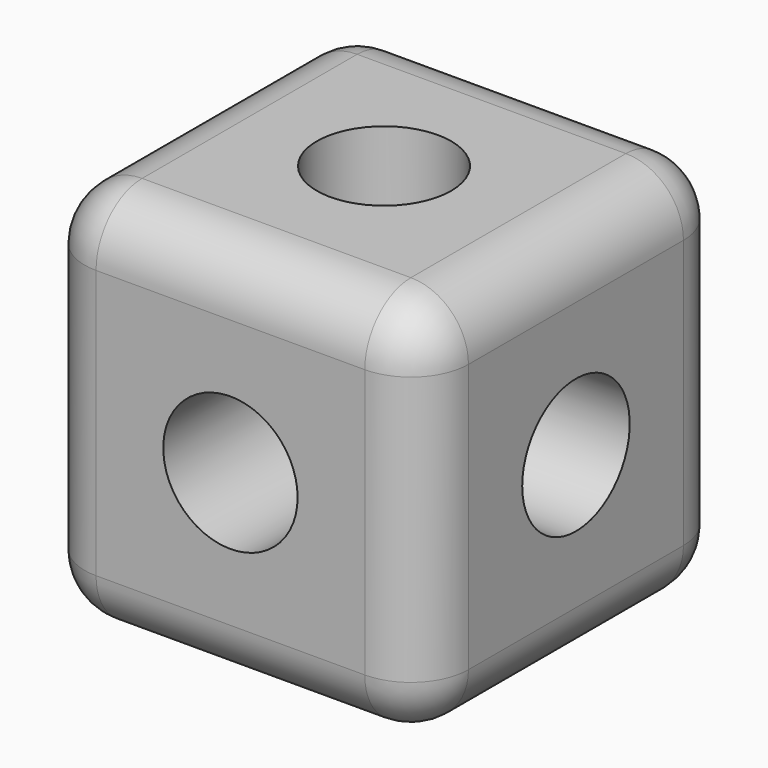
from build123d import *

# Parameters (mm, degrees)
F0_W     = 100
F0_H     = 100
F1_DEPTH = 50
F2_R     = 17.5
F3_DEPTH = 100
F4_DEPTH = 100
F5_R     = 17.5
F6_DEPTH = 100
F7_R     = 17.5
F8_DEPTH = 100
F9_R     = 15


with BuildPart() as f1:
    # F0 (on Front) → F1 (new body, symmetric)
    with BuildSketch(Plane.XZ):
        Rectangle(F0_W, F0_H)
    extrude(amount=F1_DEPTH, both=True)

    # F2 (on face) → F3 (join, through all)
    with BuildSketch(Plane(origin=(-50, 0, 0), x_dir=(0, -1, 0), z_dir=(-1, 0, 0))):
        Circle(F2_R)
    extrude(amount=-F3_DEPTH)

    # F2 (on face) → F4 (cut, through all)
    with BuildSketch(Plane(origin=(-50, 0, 0), x_dir=(0, -1, 0), z_dir=(-1, 0, 0))):
        Circle(F2_R)
    extrude(amount=-F4_DEPTH, mode=Mode.SUBTRACT)

    # F5 (on face) → F6 (cut, through all)
    with BuildSketch(Plane.XZ.offset(50)):
        Circle(F5_R)
    extrude(amount=-F6_DEPTH, mode=Mode.SUBTRACT)

    # F7 (on face) → F8 (cut, through all)
    with BuildSketch(Plane(origin=(0, 0, -50), x_dir=(1, 0, 0), z_dir=(0, 0, -1))):
        Circle(F7_R)
    extrude(amount=-F8_DEPTH, mode=Mode.SUBTRACT)

    # F9
    f9_edges = [f1.edges().sort_by_distance(p)[0] for p in [
        (-50, -50, 0),
        (0, -50, 50),
        (0, -50, -50),
        (50, -50, 0),
        (50, 0, -50),
        (50, 0, 50),
        (-50, 0, 50),
        (0, 50, 50),
        (50, 50, 0),
        (-50, 50, 0),
        (0, 50, -50),
        (-50, 0, -50),
    ]]
    fillet(f9_edges, radius=F9_R)


solid = f1.part
